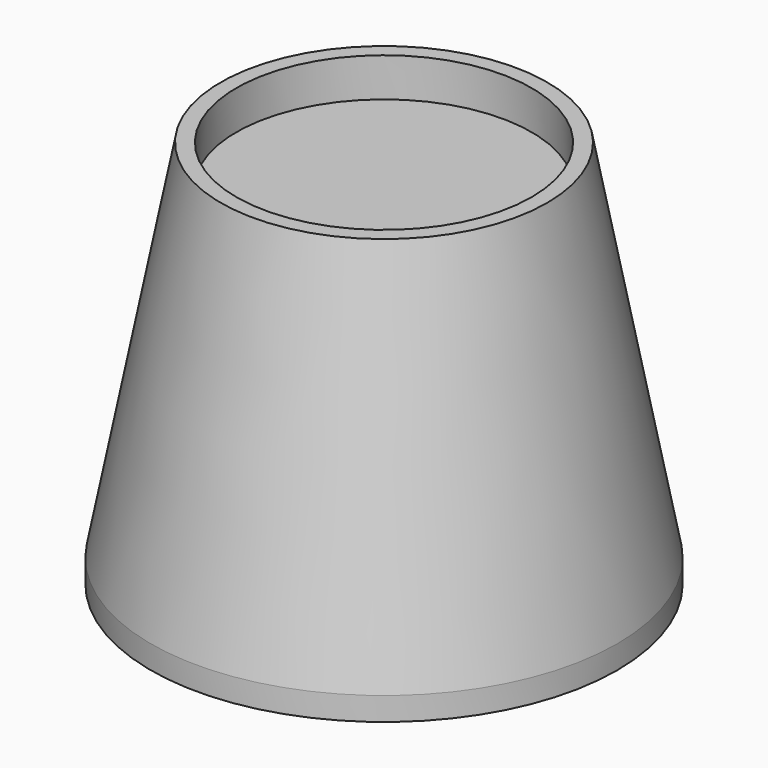
from build123d import *

# Parameters (mm, degrees)
F0_R      = 38.1
F1_DEPTH  = 3.81
F1_FACE_R = 38.1
F3_R      = 26.67
F5_R      = 24.13
F6_DEPTH  = 6.35


with BuildPart() as f1:
    # F0 (on Top) → F1 (new body)
    with BuildSketch(Plane.XY):
        Circle(F0_R)
    extrude(amount=F1_DEPTH)

    # F1_face (on face) → F4 section 0
    with BuildSketch(Plane.XY.offset(3.81)):
        Circle(F1_FACE_R)
    # F3 (on offset) → F4 section 1
    with BuildSketch(Plane.XY.offset(63.5)):
        Circle(F3_R)
    loft()

    # F5 (on face) → F6 (cut)
    with BuildSketch(Plane.XY.offset(63.5)):
        Circle(F5_R)
    extrude(amount=-F6_DEPTH, mode=Mode.SUBTRACT)


solid = f1.part
